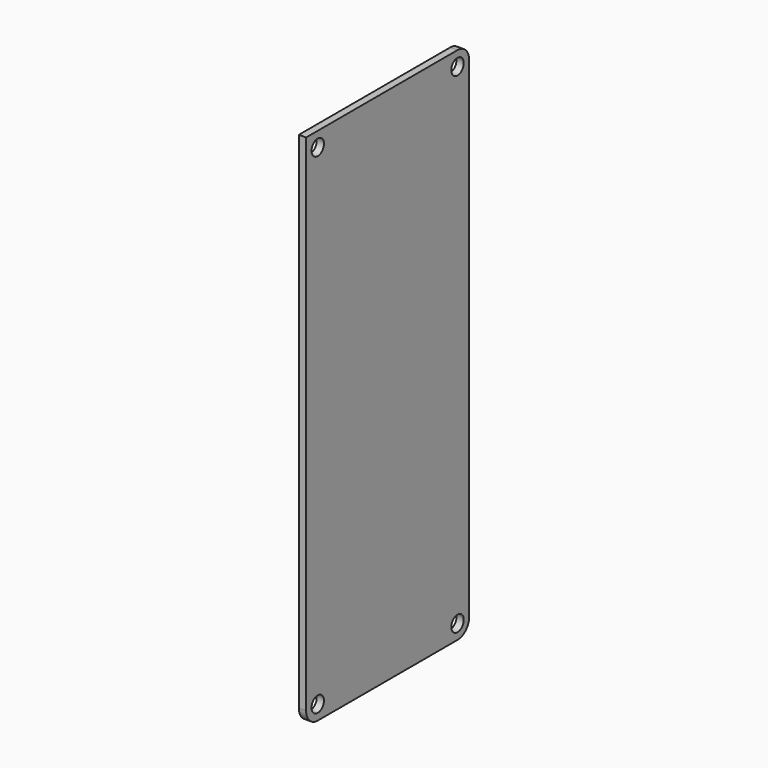
from build123d import *

# Parameters (mm, degrees)
CYLINDER006_R     = 1.6
CYLINDER006_DEPTH = 10
CYLINDER007_R     = 1.6
CYLINDER007_DEPTH = 10
CYLINDER008_R     = 1.6
CYLINDER008_DEPTH = 10
CYLINDER005_R     = 1.6
CYLINDER005_DEPTH = 10
BOX_W             = 1.5
BOX_H             = 42
BOX_DEPTH         = 107
FILLET002_R       = 3


with BuildPart() as cylinder006:
    # Cylinder006 → Cylinder006 (new body)
    with BuildSketch(Plane(origin=(5, 39, 3), x_dir=(0, 0, 1), z_dir=(-1, 0, 0))):
        Circle(CYLINDER006_R)
    extrude(amount=CYLINDER006_DEPTH)


with BuildPart() as cylinder007:
    # Cylinder007 → Cylinder007 (new body)
    with BuildSketch(Plane(origin=(5, 3, 104), x_dir=(0, 0, 1), z_dir=(-1, 0, 0))):
        Circle(CYLINDER007_R)
    extrude(amount=CYLINDER007_DEPTH)


with BuildPart() as cylinder008:
    # Cylinder008 → Cylinder008 (new body)
    with BuildSketch(Plane(origin=(5, 39, 104), x_dir=(0, 0, 1), z_dir=(-1, 0, 0))):
        Circle(CYLINDER008_R)
    extrude(amount=CYLINDER008_DEPTH)


with BuildPart() as m3_cyl:
    # Cylinder005 → Cylinder005 (new body)
    with BuildSketch(Plane(origin=(5, 3, 3), x_dir=(0, 0, 1), z_dir=(-1, 0, 0))):
        Circle(CYLINDER005_R)
    extrude(amount=CYLINDER005_DEPTH)

    # Fusion005: union Cylinder006, Cylinder007, Cylinder008
    add(cylinder006.part)
    add(cylinder007.part)
    add(cylinder008.part)


with BuildPart() as pcb:
    # Box → Box (new body)
    with BuildSketch(Plane.XY):
        with Locations((0.75, 21)):
            Rectangle(BOX_W, BOX_H)
    extrude(amount=BOX_DEPTH)

    # Cut: cut m3_cyl
    add(m3_cyl.part, mode=Mode.SUBTRACT)

    # Fillet002
    fillet002_edges = [pcb.edges().sort_by_distance(p)[0] for p in [
        (0.75, 0, 0),
        (0.75, 42, 107),
        (0.75, 42, 0),
    ]]
    fillet(fillet002_edges, radius=FILLET002_R)


solid = pcb.part
